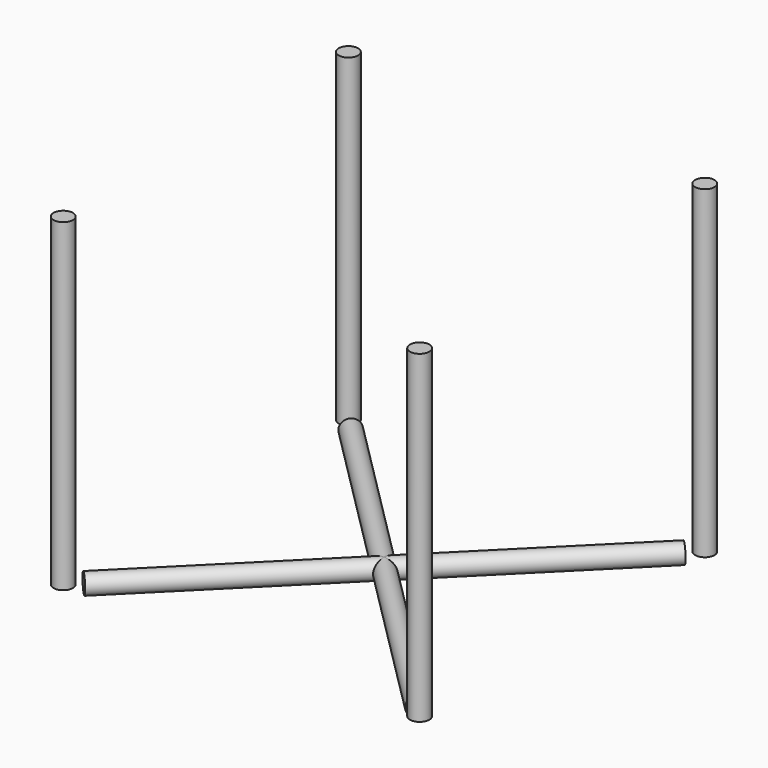
from build123d import *

# Parameters (mm, degrees)
F1_R     = 15
F2_DEPTH = 500
F4_R     = 15


with BuildPart() as f2:
    # F1 (on Top) → F2 (new body)
    with BuildSketch(Plane.XY):
        with Locations((-275, 275)):
            Circle(F1_R)
    extrude(amount=F2_DEPTH)


with BuildPart() as f2b:
    # F1 (on Top) → F2, piece 2 (new body)
    with BuildSketch(Plane.XY):
        with Locations((275, 275)):
            Circle(F1_R)
    extrude(amount=F2_DEPTH)


with BuildPart() as f2c:
    # F1 (on Top) → F2, piece 3 (new body)
    with BuildSketch(Plane.XY):
        with Locations((-275, -275)):
            Circle(F1_R)
    extrude(amount=F2_DEPTH)


with BuildPart() as f2d:
    # F1 (on Top) → F2, piece 4 (new body)
    with BuildSketch(Plane.XY):
        with Locations((275, -275)):
            Circle(F1_R)
    extrude(amount=F2_DEPTH)


with BuildPart() as f5:
    # F5: sweep along a path in F1
    with BuildLine(Plane.XY) as f5_path:
        Line((-257.3223304703, 257.3223304703), (257.3223304703, -257.3223304703))
    # F4 (on line) → F5 (sweep)
    with BuildSketch(Plane(origin=(-257.3223304703, 257.3223304703, 0), x_dir=(0.7071067812, 0.7071067812, 0), z_dir=(0.7071067812, -0.7071067812, 0))):
        Circle(F4_R)
    sweep(path=f5_path.line)

    # F6: F5 across plane


with BuildPart() as f5_1:
    add(f5.part)
    add(f5.part.mirror(Plane.YZ))


solid = Compound([f2.part, f2b.part, f2c.part, f2d.part, f5_1.part])
